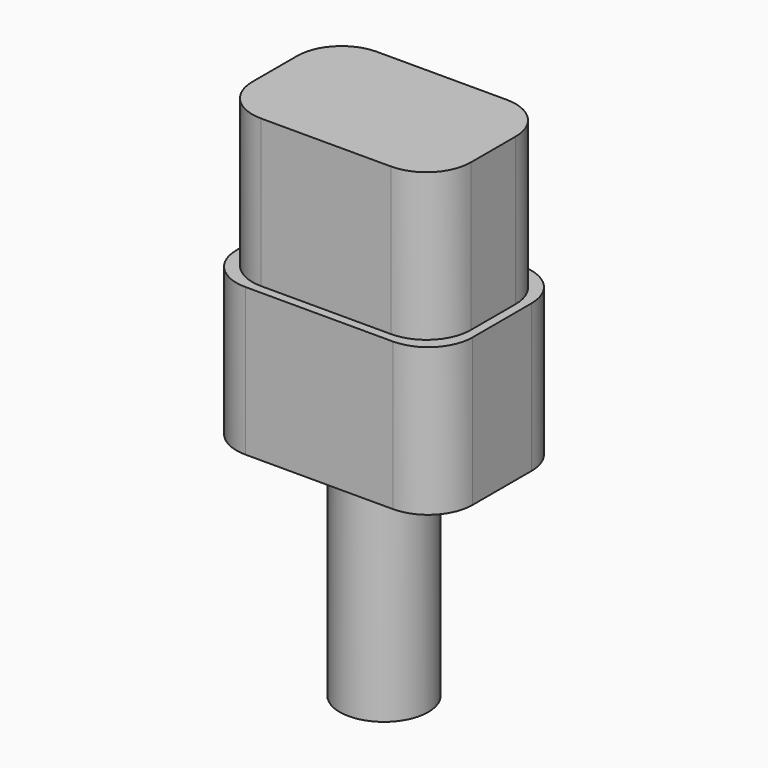
from build123d import *

# Parameters (mm, degrees)
F1_DEPTH = 10
F3_DEPTH = 10
F4_R     = 3
F5_DEPTH = 15


with BuildPart() as f1:
    # F0 (on Top) → F1 (new body)
    with BuildSketch(Plane.XY):
        with BuildLine():
            Line((5, 5.5), (-5, 5.5))
            ThreePointArc((-5, 5.5), (-7.12132, 4.62132), (-8, 2.5))
            Line((-8, 2.5), (-8, -2.5))
            ThreePointArc((-8, -2.5), (-7.12132, -4.62132), (-5, -5.5))
            Line((-5, -5.5), (5, -5.5))
            ThreePointArc((5, -5.5), (7.12132, -4.62132), (8, -2.5))
            Line((8, -2.5), (8, 2.5))
            ThreePointArc((8, 2.5), (7.12132, 4.62132), (5, 5.5))
        make_face()
    extrude(amount=F1_DEPTH)

    # F2 (on face) → F3 (join)
    with BuildSketch(Plane.XY.offset(10)):
        with BuildLine():
            Line((4.4, 4.9), (-4.4, 4.9))
            ThreePointArc((-4.4, 4.9), (-6.52132, 4.02132), (-7.4, 1.9))
            Line((-7.4, 1.9), (-7.4, -1.9))
            ThreePointArc((-7.4, -1.9), (-6.52132, -4.02132), (-4.4, -4.9))
            Line((-4.4, -4.9), (4.4, -4.9))
            ThreePointArc((4.4, -4.9), (6.52132, -4.02132), (7.4, -1.9))
            Line((7.4, -1.9), (7.4, 1.9))
            ThreePointArc((7.4, 1.9), (6.52132, 4.02132), (4.4, 4.9))
        make_face()
    extrude(amount=F3_DEPTH)

    # F4 (on face) → F5 (join)
    with BuildSketch(Plane(origin=(0, 0, 0), x_dir=(1, 0, 0), z_dir=(0, 0, -1))):
        Circle(F4_R)
    extrude(amount=F5_DEPTH)


solid = f1.part
